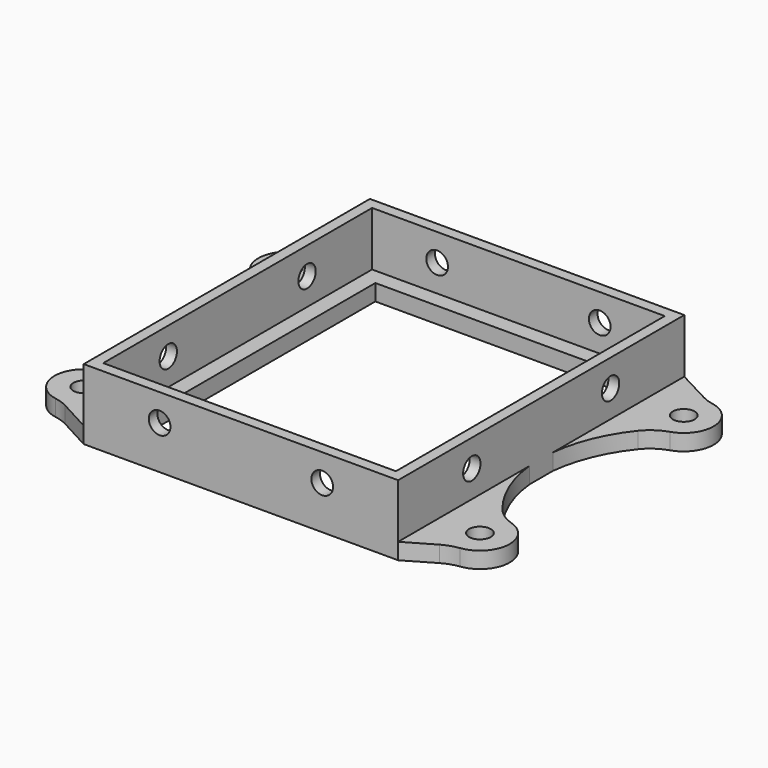
from build123d import *

# Parameters (mm, degrees)
F0_R     = 2
F0_W     = 48
F0_H     = 56
F1_DEPTH = 3
F2_W     = 58
F2_H     = 66
F2_W_2   = 54
F2_H_2   = 62
F3_DEPTH = 10
F4_R     = 2
F5_DEPTH = 150
F6_R     = 2
F7_DEPTH = 150


with BuildPart() as f1:
    # F0 (on Top) → F1 (new body)
    with BuildSketch(Plane.XY):
        with BuildLine():
            Line((-29, -33), (29, -33))
            Line((29, -33), (34.187102, -29.978189))
            ThreePointArc((34.187102, -29.978189), (35.641388, -29.315702), (37.198334, -28.955486))
            ThreePointArc((37.198334, -28.955486), (41.977715, -23.994613), (38.164283, -18.257848))
            ThreePointArc((38.164283, -18.257848), (36.059717, -17.229965), (34.343039, -15.636616))
            ThreePointArc((34.343039, -15.636616), (30.753152, -9.568991), (29, -2.740388))
            ThreePointArc((29, -2.740388), (28.849352, 0), (29, 2.740388))
            ThreePointArc((29, 2.740388), (30.753152, 9.568991), (34.343039, 15.636616))
            ThreePointArc((34.343039, 15.636616), (36.059717, 17.229965), (38.164283, 18.257848))
            ThreePointArc((38.164283, 18.257848), (41.989676, 23.836841), (37.510905, 28.906299))
            ThreePointArc((37.510905, 28.906299), (36.345626, 29.216653), (35.240235, 29.698633))
            Line((35.240235, 29.698633), (29, 33))
            Line((29, 33), (-29, 33))
            Line((-29, 33), (-35.523929, 29.622473))
            ThreePointArc((-35.523929, 29.622473), (-36.536989, 29.183773), (-37.600798, 28.888714))
            ThreePointArc((-37.600798, 28.888714), (-41.99229, 23.791117), (-38.164283, 18.257848))
            ThreePointArc((-38.164283, 18.257848), (-36.059717, 17.229965), (-34.343039, 15.636616))
            ThreePointArc((-34.343039, 15.636616), (-30.753152, 9.568991), (-29, 2.740388))
            ThreePointArc((-29, 2.740388), (-28.849352, 0), (-29, -2.740388))
            ThreePointArc((-29, -2.740388), (-30.753152, -9.568991), (-34.343039, -15.636616))
            ThreePointArc((-34.343039, -15.636616), (-36.059717, -17.229965), (-38.164283, -18.257848))
            ThreePointArc((-38.164283, -18.257848), (-41.987222, -23.874692), (-37.436242, -28.919728))
            ThreePointArc((-37.436242, -28.919728), (-36.183275, -29.24235), (-34.998701, -29.76273))
            Line((-34.998701, -29.76273), (-29, -33))
        make_face()
        with Locations((-36.5, -23.5)):
            Circle(F0_R, mode=Mode.SUBTRACT)
        with Locations((36.5, -23.5)):
            Circle(F0_R, mode=Mode.SUBTRACT)
        with Locations((-36.5, 23.5)):
            Circle(F0_R, mode=Mode.SUBTRACT)
        Rectangle(F0_W, F0_H, mode=Mode.SUBTRACT)
        with Locations((36.5, 23.5)):
            Circle(F0_R, mode=Mode.SUBTRACT)
        with BuildLine():
            ThreePointArc((29, 2.740388), (28.849352, 0), (29, -2.740388))
            Line((29, -2.740388), (29, 2.740388))
        make_face()
        with BuildLine():
            Line((-29, 2.740388), (-29, -2.740388))
            ThreePointArc((-29, -2.740388), (-28.849352, 0), (-29, 2.740388))
        make_face()
    extrude(amount=F1_DEPTH)

    # F2 (on face) → F3 (join)
    with BuildSketch(Plane.XY.offset(3)):
        Rectangle(F2_W, F2_H)
        Rectangle(F2_W_2, F2_H_2, mode=Mode.SUBTRACT)
    extrude(amount=F3_DEPTH)

    # F4 (on face) → F5 (cut)
    with BuildSketch(Plane.XZ.offset(33)):
        with Locations((-15, 8)):
            Circle(F4_R)
        with Locations((15, 8)):
            Circle(F4_R)
    extrude(amount=-F5_DEPTH, mode=Mode.SUBTRACT)

    # F6 (on face) → F7 (cut)
    with BuildSketch(Plane.YZ.offset(29)):
        with Locations((-16, 8)):
            Circle(F6_R)
        with Locations((16, 8)):
            Circle(F6_R)
    extrude(amount=-F7_DEPTH, mode=Mode.SUBTRACT)


solid = f1.part
